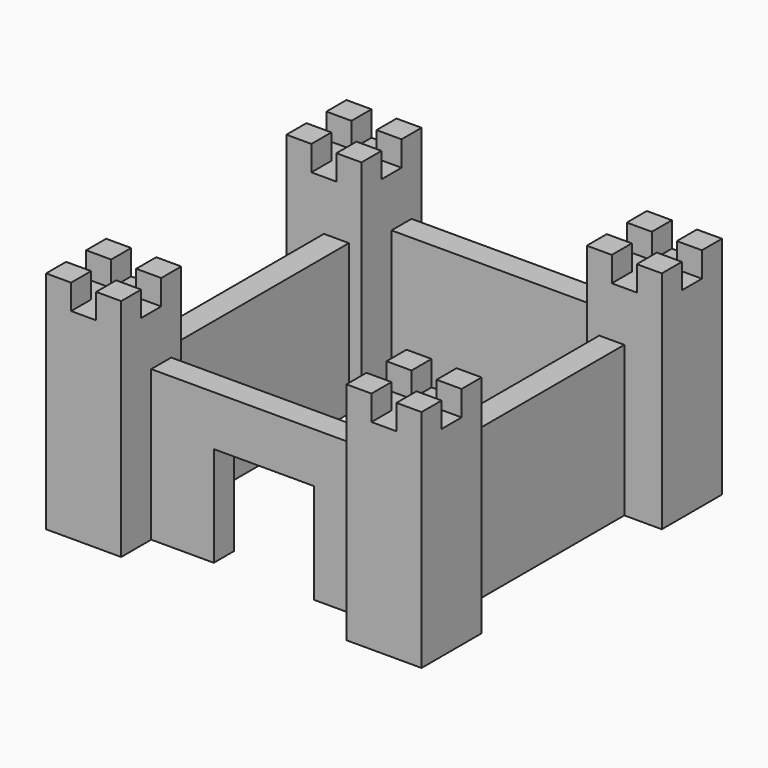
from build123d import *

# Parameters (mm, degrees)
BOX_W        = 12
BOX_H        = 1
BOX_DEPTH    = 6
BOX002_W     = 4
BOX002_H     = 1
BOX002_DEPTH = 2
BOX003_W     = 4
BOX003_H     = 1
BOX003_DEPTH = 6
BOX001_W     = 4
BOX001_H     = 1
BOX001_DEPTH = 6
BOX004_W     = 12
BOX004_H     = 1
BOX004_DEPTH = 6
BOX005_W     = 12
BOX005_H     = 1
BOX005_DEPTH = 6
BOX007_W     = 1
BOX007_H     = 1
BOX007_DEPTH = 1
BOX008_W     = 1
BOX008_H     = 1
BOX008_DEPTH = 1
BOX009_W     = 1
BOX009_H     = 1
BOX009_DEPTH = 1
BOX010_W     = 1
BOX010_H     = 1
BOX010_DEPTH = 1
BOX006_W     = 3
BOX006_H     = 3
BOX006_DEPTH = 8
BOX013_W     = 1
BOX013_H     = 1
BOX013_DEPTH = 1
BOX012_W     = 1
BOX012_H     = 1
BOX012_DEPTH = 1
BOX011_W     = 1
BOX011_H     = 1
BOX011_DEPTH = 1
BOX014_W     = 1
BOX014_H     = 1
BOX014_DEPTH = 1
BOX015_W     = 3
BOX015_H     = 3
BOX015_DEPTH = 8
BOX018_W     = 1
BOX018_H     = 1
BOX018_DEPTH = 1
BOX017_W     = 1
BOX017_H     = 1
BOX017_DEPTH = 1
BOX016_W     = 1
BOX016_H     = 1
BOX016_DEPTH = 1
BOX019_W     = 1
BOX019_H     = 1
BOX019_DEPTH = 1
BOX020_W     = 3
BOX020_H     = 3
BOX020_DEPTH = 8
BOX022_W     = 1
BOX022_H     = 1
BOX022_DEPTH = 1
BOX025_W     = 1
BOX025_H     = 1
BOX025_DEPTH = 1
BOX024_W     = 1
BOX024_H     = 1
BOX024_DEPTH = 1
BOX021_W     = 1
BOX021_H     = 1
BOX021_DEPTH = 1
BOX023_W     = 3
BOX023_H     = 3
BOX023_DEPTH = 8


with BuildPart() as obj1:
    # Box → Box (new body)
    with BuildSketch(Plane(origin=(0, 12, 0), x_dir=(1, 0, 0), z_dir=(0, 0, 1))):
        with Locations((6, 0.5)):
            Rectangle(BOX_W, BOX_H)
    extrude(amount=BOX_DEPTH)


with BuildPart() as cube002:
    # Box002 → Box002 (new body)
    with BuildSketch(Plane(origin=(4, 0, 4), x_dir=(1, 0, 0), z_dir=(0, 0, 1))):
        with Locations((2, 0.5)):
            Rectangle(BOX002_W, BOX002_H)
    extrude(amount=BOX002_DEPTH)


with BuildPart() as cube003:
    # Box003 → Box003 (new body)
    with BuildSketch(Plane(origin=(8, 0, 0), x_dir=(1, 0, 0), z_dir=(0, 0, 1))):
        with Locations((2, 0.5)):
            Rectangle(BOX003_W, BOX003_H)
    extrude(amount=BOX003_DEPTH)


with BuildPart() as frontal:
    # Box001 → Box001 (new body)
    with BuildSketch(Plane.XY):
        with Locations((2, 0.5)):
            Rectangle(BOX001_W, BOX001_H)
    extrude(amount=BOX001_DEPTH)

    # Fusion: union Cube002, Cube003
    add(cube002.part)
    add(cube003.part)


with BuildPart() as derecha:
    # Box004 → Box004 (new body)
    with BuildSketch(Plane(origin=(12, 1, 0), x_dir=(0, 1, 0), z_dir=(0, 0, 1))):
        with Locations((6, 0.5)):
            Rectangle(BOX004_W, BOX004_H)
    extrude(amount=BOX004_DEPTH)


with BuildPart() as izquierda:
    # Box005 → Box005 (new body)
    with BuildSketch(Plane(origin=(0, 12, 0), x_dir=(0, -1, 0), z_dir=(0, 0, 1))):
        with Locations((6, 0.5)):
            Rectangle(BOX005_W, BOX005_H)
    extrude(amount=BOX005_DEPTH)


with BuildPart() as cube004:
    # Box007 → Box007 (new body)
    with BuildSketch(Plane(origin=(0.5, 0.5, 8), x_dir=(1, 0, 0), z_dir=(0, 0, 1))):
        with Locations((0.5, 0.5)):
            Rectangle(BOX007_W, BOX007_H)
    extrude(amount=BOX007_DEPTH)


with BuildPart() as cube005:
    # Box008 → Box008 (new body)
    with BuildSketch(Plane(origin=(-1.5, 0.5, 8), x_dir=(1, 0, 0), z_dir=(0, 0, 1))):
        with Locations((0.5, 0.5)):
            Rectangle(BOX008_W, BOX008_H)
    extrude(amount=BOX008_DEPTH)


with BuildPart() as cube006:
    # Box009 → Box009 (new body)
    with BuildSketch(Plane(origin=(0.5, -1.5, 8), x_dir=(1, 0, 0), z_dir=(0, 0, 1))):
        with Locations((0.5, 0.5)):
            Rectangle(BOX009_W, BOX009_H)
    extrude(amount=BOX009_DEPTH)


with BuildPart() as cube007:
    # Box010 → Box010 (new body)
    with BuildSketch(Plane(origin=(-1.5, -1.5, 8), x_dir=(1, 0, 0), z_dir=(0, 0, 1))):
        with Locations((0.5, 0.5)):
            Rectangle(BOX010_W, BOX010_H)
    extrude(amount=BOX010_DEPTH)


with BuildPart() as obj2:
    # Box006 → Box006 (new body)
    with BuildSketch(Plane(origin=(-1.5, -1.5, 0), x_dir=(1, 0, 0), z_dir=(0, 0, 1))):
        with Locations((1.5, 1.5)):
            Rectangle(BOX006_W, BOX006_H)
    extrude(amount=BOX006_DEPTH)

    # Fusion001: union Cube004, Cube005, Cube006, Cube007
    add(cube004.part)
    add(cube005.part)
    add(cube006.part)
    add(cube007.part)


with BuildPart() as cube010:
    # Box013 → Box013 (new body)
    with BuildSketch(Plane(origin=(0.5, 0.5, 8), x_dir=(1, 0, 0), z_dir=(0, 0, 1))):
        with Locations((0.5, 0.5)):
            Rectangle(BOX013_W, BOX013_H)
    extrude(amount=BOX013_DEPTH)


with BuildPart() as cube009:
    # Box012 → Box012 (new body)
    with BuildSketch(Plane(origin=(-1.5, 0.5, 8), x_dir=(1, 0, 0), z_dir=(0, 0, 1))):
        with Locations((0.5, 0.5)):
            Rectangle(BOX012_W, BOX012_H)
    extrude(amount=BOX012_DEPTH)


with BuildPart() as cube008:
    # Box011 → Box011 (new body)
    with BuildSketch(Plane(origin=(0.5, -1.5, 8), x_dir=(1, 0, 0), z_dir=(0, 0, 1))):
        with Locations((0.5, 0.5)):
            Rectangle(BOX011_W, BOX011_H)
    extrude(amount=BOX011_DEPTH)


with BuildPart() as cube011:
    # Box014 → Box014 (new body)
    with BuildSketch(Plane(origin=(-1.5, -1.5, 8), x_dir=(1, 0, 0), z_dir=(0, 0, 1))):
        with Locations((0.5, 0.5)):
            Rectangle(BOX014_W, BOX014_H)
    extrude(amount=BOX014_DEPTH)


with BuildPart() as torre_dd:
    # Box015 → Box015 (new body)
    with BuildSketch(Plane(origin=(-1.5, -1.5, 0), x_dir=(1, 0, 0), z_dir=(0, 0, 1))):
        with Locations((1.5, 1.5)):
            Rectangle(BOX015_W, BOX015_H)
    extrude(amount=BOX015_DEPTH)

    # Fusion002: union Cube010, Cube009, Cube008, Cube011
    add(cube010.part)
    add(cube009.part)
    add(cube008.part)
    add(cube011.part)


with BuildPart() as torre_dd_1:
    # Fusion002 placement: moved
    add(torre_dd.part.moved(Location((12, 0, 0))))


with BuildPart() as cube015:
    # Box018 → Box018 (new body)
    with BuildSketch(Plane(origin=(0.5, 0.5, 8), x_dir=(1, 0, 0), z_dir=(0, 0, 1))):
        with Locations((0.5, 0.5)):
            Rectangle(BOX018_W, BOX018_H)
    extrude(amount=BOX018_DEPTH)


with BuildPart() as cube014:
    # Box017 → Box017 (new body)
    with BuildSketch(Plane(origin=(-1.5, 0.5, 8), x_dir=(1, 0, 0), z_dir=(0, 0, 1))):
        with Locations((0.5, 0.5)):
            Rectangle(BOX017_W, BOX017_H)
    extrude(amount=BOX017_DEPTH)


with BuildPart() as cube013:
    # Box016 → Box016 (new body)
    with BuildSketch(Plane(origin=(0.5, -1.5, 8), x_dir=(1, 0, 0), z_dir=(0, 0, 1))):
        with Locations((0.5, 0.5)):
            Rectangle(BOX016_W, BOX016_H)
    extrude(amount=BOX016_DEPTH)


with BuildPart() as cube016:
    # Box019 → Box019 (new body)
    with BuildSketch(Plane(origin=(-1.5, -1.5, 8), x_dir=(1, 0, 0), z_dir=(0, 0, 1))):
        with Locations((0.5, 0.5)):
            Rectangle(BOX019_W, BOX019_H)
    extrude(amount=BOX019_DEPTH)


with BuildPart() as torre_ti:
    # Box020 → Box020 (new body)
    with BuildSketch(Plane(origin=(-1.5, -1.5, 0), x_dir=(1, 0, 0), z_dir=(0, 0, 1))):
        with Locations((1.5, 1.5)):
            Rectangle(BOX020_W, BOX020_H)
    extrude(amount=BOX020_DEPTH)

    # Fusion003: union Cube015, Cube014, Cube013, Cube016
    add(cube015.part)
    add(cube014.part)
    add(cube013.part)
    add(cube016.part)


with BuildPart() as torre_ti_1:
    # Fusion003 placement: moved
    add(torre_ti.part.moved(Location((0, 12, 0))))


with BuildPart() as cube019:
    # Box022 → Box022 (new body)
    with BuildSketch(Plane(origin=(0.5, 0.5, 8), x_dir=(1, 0, 0), z_dir=(0, 0, 1))):
        with Locations((0.5, 0.5)):
            Rectangle(BOX022_W, BOX022_H)
    extrude(amount=BOX022_DEPTH)


with BuildPart() as cube022:
    # Box025 → Box025 (new body)
    with BuildSketch(Plane(origin=(-1.5, 0.5, 8), x_dir=(1, 0, 0), z_dir=(0, 0, 1))):
        with Locations((0.5, 0.5)):
            Rectangle(BOX025_W, BOX025_H)
    extrude(amount=BOX025_DEPTH)


with BuildPart() as cube021:
    # Box024 → Box024 (new body)
    with BuildSketch(Plane(origin=(0.5, -1.5, 8), x_dir=(1, 0, 0), z_dir=(0, 0, 1))):
        with Locations((0.5, 0.5)):
            Rectangle(BOX024_W, BOX024_H)
    extrude(amount=BOX024_DEPTH)


with BuildPart() as cube018:
    # Box021 → Box021 (new body)
    with BuildSketch(Plane(origin=(-1.5, -1.5, 8), x_dir=(1, 0, 0), z_dir=(0, 0, 1))):
        with Locations((0.5, 0.5)):
            Rectangle(BOX021_W, BOX021_H)
    extrude(amount=BOX021_DEPTH)


with BuildPart() as obj3:
    # Box023 → Box023 (new body)
    with BuildSketch(Plane(origin=(-1.5, -1.5, 0), x_dir=(1, 0, 0), z_dir=(0, 0, 1))):
        with Locations((1.5, 1.5)):
            Rectangle(BOX023_W, BOX023_H)
    extrude(amount=BOX023_DEPTH)

    # Fusion004: union Cube019, Cube022, Cube021, Cube018
    add(cube019.part)
    add(cube022.part)
    add(cube021.part)
    add(cube018.part)


with BuildPart() as obj3_1:
    # Fusion004 placement: moved
    add(obj3.part.moved(Location((12, 12, 0))))


solid = Compound([obj1.part, frontal.part, derecha.part, izquierda.part, obj2.part, torre_dd_1.part, torre_ti_1.part, obj3_1.part])
